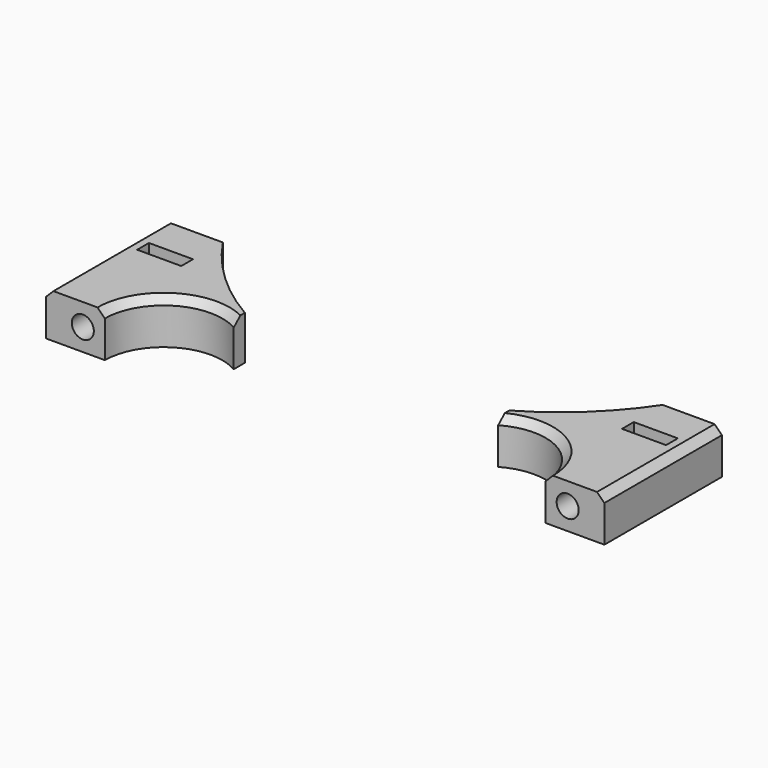
from build123d import *

# Parameters (mm, degrees)
CYLINDER2842_R     = 1.5
CYLINDER2842_DEPTH = 60
CYLINDER2839_R     = 1.5
CYLINDER2839_DEPTH = 60
BOX1062_W          = 6
BOX1062_H          = 2
BOX1062_DEPTH      = 6
BOX1060_W          = 6
BOX1060_H          = 2
BOX1060_DEPTH      = 6
CYLINDER2821_R     = 36
CYLINDER2821_DEPTH = 16
CYLINDER2820_R     = 8
CYLINDER2820_DEPTH = 16
CYLINDER2818_R     = 8
CYLINDER2818_DEPTH = 16
BOX1053_W          = 20
BOX1053_H          = 20
BOX1053_DEPTH      = 6
BOX1056_W          = 20
BOX1056_H          = 20
BOX1056_DEPTH      = 6
CHAMFER148_SIZE    = 1
CHAMFER153_SIZE    = 1
CHAMFER155_SIZE    = 1
CHAMFER152_SIZE    = 1


with BuildPart() as obj1:
    # Cylinder2842 → Cylinder2842 (new body)
    with BuildSketch(Plane(origin=(33, -10, 8), x_dir=(1, 0, 0), z_dir=(0, -1, 0))):
        Circle(CYLINDER2842_R)
    extrude(amount=CYLINDER2842_DEPTH)


with BuildPart() as compound1267:
    # Cylinder2839 → Cylinder2839 (new body)
    with BuildSketch(Plane(origin=(-33, -10, 8), x_dir=(1, 0, 0), z_dir=(0, -1, 0))):
        Circle(CYLINDER2839_R)
    extrude(amount=CYLINDER2839_DEPTH)

    # Compound1267: union obj1
    add(obj1.part)


with BuildPart() as compound1267_1:
    # Compound1267 placement: moved
    add(compound1267.part.moved(Location((0, -4, 0))))


with BuildPart() as krychle1061:
    # Box1062 → Box1062 (new body)
    with BuildSketch(Plane(origin=(-36, -27, 5), x_dir=(1, 0, 0), z_dir=(0, 0, 1))):
        with Locations((3, 1)):
            Rectangle(BOX1062_W, BOX1062_H)
    extrude(amount=BOX1062_DEPTH)


with BuildPart() as compound1266:
    # Box1060 → Box1060 (new body)
    with BuildSketch(Plane(origin=(30, -27, 5), x_dir=(1, 0, 0), z_dir=(0, 0, 1))):
        with Locations((3, 1)):
            Rectangle(BOX1060_W, BOX1060_H)
    extrude(amount=BOX1060_DEPTH)

    # Compound1266: union Krychle1061
    add(krychle1061.part)


with BuildPart() as obj2:
    # Cylinder2821 → Cylinder2821 (new body)
    with BuildSketch(Plane.XY):
        Circle(CYLINDER2821_R)
    extrude(amount=CYLINDER2821_DEPTH)


with BuildPart() as obj3:
    # Cylinder2820 → Cylinder2820 (new body)
    with BuildSketch(Plane(origin=(-22, -40, 0), x_dir=(1, 0, 0), z_dir=(0, 0, 1))):
        Circle(CYLINDER2820_R)
    extrude(amount=CYLINDER2820_DEPTH)


with BuildPart() as compound1255:
    # Cylinder2818 → Cylinder2818 (new body)
    with BuildSketch(Plane(origin=(22, -40, 0), x_dir=(1, 0, 0), z_dir=(0, 0, 1))):
        Circle(CYLINDER2818_R)
    extrude(amount=CYLINDER2818_DEPTH)

    # Compound1255: union obj3
    add(obj3.part)


with BuildPart() as krychle1052:
    # Box1053 → Box1053 (new body)
    with BuildSketch(Plane(origin=(-38, -40, 5), x_dir=(1, 0, 0), z_dir=(0, 0, 1))):
        with Locations((10, 10)):
            Rectangle(BOX1053_W, BOX1053_H)
    extrude(amount=BOX1053_DEPTH)


with BuildPart() as cut1084:
    # Box1056 → Box1056 (new body)
    with BuildSketch(Plane(origin=(18, -40, 5), x_dir=(1, 0, 0), z_dir=(0, 0, 1))):
        with Locations((10, 10)):
            Rectangle(BOX1056_W, BOX1056_H)
    extrude(amount=BOX1056_DEPTH)

    # Compound1264: union Krychle1052
    add(krychle1052.part)

    # Cut1073: cut Compound1255
    add(compound1255.part, mode=Mode.SUBTRACT)

    # Chamfer148
    chamfer148_edges = [cut1084.edges().sort_by_distance(p)[0] for p in [
        (26, -33.071797, 11),
    ]]
    chamfer(chamfer148_edges, length=CHAMFER148_SIZE)

    # Chamfer153
    chamfer153_edges = [cut1084.edges().sort_by_distance(p)[0] for p in [
        (38, -30, 11),
    ]]
    chamfer(chamfer153_edges, length=CHAMFER153_SIZE)

    # Chamfer155
    chamfer155_edges = [cut1084.edges().sort_by_distance(p)[0] for p in [
        (-38, -30, 11),
    ]]
    chamfer(chamfer155_edges, length=CHAMFER155_SIZE)

    # Chamfer152
    chamfer152_edges = [cut1084.edges().sort_by_distance(p)[0] for p in [
        (-26, -33.071797, 11),
    ]]
    chamfer(chamfer152_edges, length=CHAMFER152_SIZE)

    # Cut1075: cut obj2
    add(obj2.part, mode=Mode.SUBTRACT)

    # Cut1071: cut Compound1266
    add(compound1266.part, mode=Mode.SUBTRACT)

    # Cut1084: cut Compound1267
    add(compound1267_1.part, mode=Mode.SUBTRACT)


solid = cut1084.part
